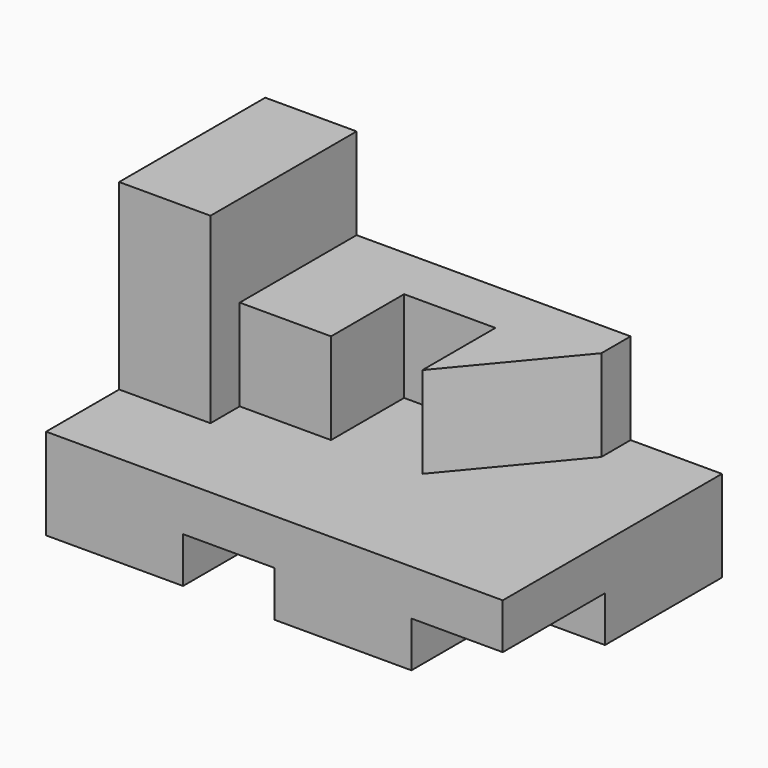
from build123d import *

# Parameters (mm, degrees)
F1_DEPTH = 95.25
F2_W     = 101.5999999233
F2_H     = 31.75
F3_DEPTH = 63.5
F5_START = -63.5
F4_W     = 63.5
F4_H     = 127
F5_DEPTH = 127
F7_DEPTH = 63.5


with BuildPart() as f1:
    # F0 (on Front) → F1 (new body, symmetric)
    with BuildSketch(Plane.XZ):
        Polygon((0, 63.5), (0, 0), (95.25, 0), (95.25, 31.75), (158.75, 31.75), (158.75, 0), (254, 0), (254, 31.75), (317.5, 31.75), (317.5, 63.5), align=None)
    extrude(amount=F1_DEPTH, both=True)

    # F2 (on face) → F3 (join, symmetric)
    with BuildSketch(Plane.YZ.offset(254)):
        with Locations((44.4500000384, 15.875)):
            Rectangle(F2_W, F2_H)
    extrude(amount=F3_DEPTH, both=True)

    # F4 (on face) → F5 (join)
    with BuildSketch(Plane.XZ.offset(95.25).offset(F5_START)):
        with Locations((31.75, 127)):
            Rectangle(F4_W, F4_H)
    extrude(amount=-F5_DEPTH)

    # F6 (on face) → F7 (join)
    with BuildSketch(Plane.XY.offset(63.5)):
        Polygon((63.5, 95.25), (63.5, -6.35), (127, -6.35), (127, 57.15), (190.5, 57.15), (190.5, -6.35), (254, 69.85), (254, 95.25), align=None)
    extrude(amount=F7_DEPTH)


solid = f1.part
